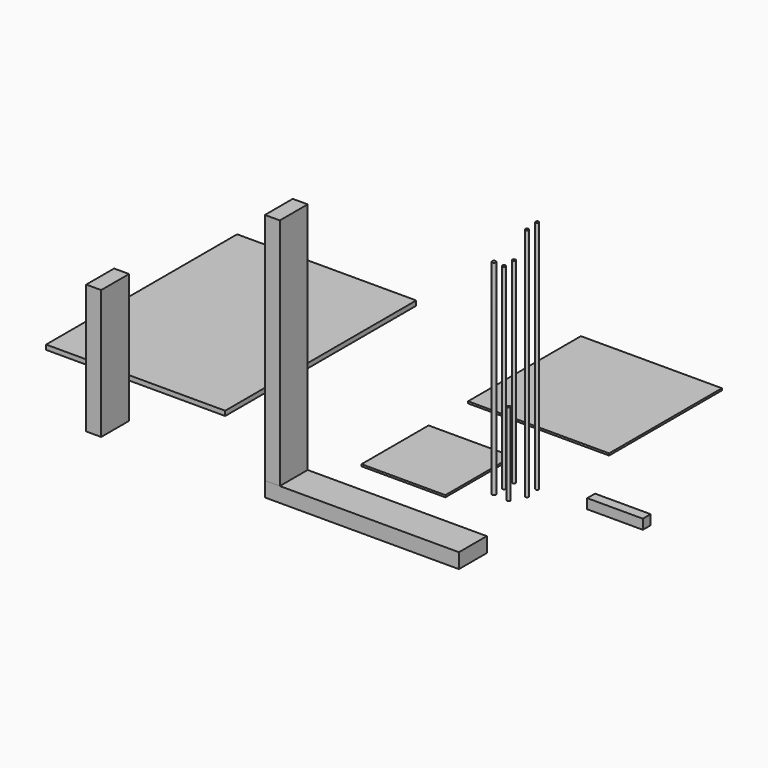
from build123d import *

# Parameters (mm, degrees)
F0_W      = 38.1
F0_H      = 596.9
F1_DEPTH  = 88.9
F2_DEPTH  = 88.9
F3_W      = 214
F3_H      = 214
F4_DEPTH  = 5
F3_R      = 4
F5_DEPTH  = 500
F6_DEPTH  = 500
F3_W_2    = 360
F3_H_2    = 360
F7_DEPTH  = 5
F3_R_2    = 4.7625
F8_DEPTH  = 522
F9_DEPTH  = 600
F3_R_3    = 3.96875
F10_DEPTH = 210
F11_DEPTH = 600
F3_W_3    = 457.2
F3_H_3    = 609.6
F12_DEPTH = 12
F3_W_4    = 142
F3_H_4    = 25
F13_DEPTH = 25
F0_H_2    = 330.2
F14_DEPTH = 88.9


with BuildPart() as f1:
    # F0 (on Front) → F1 (new body)
    with BuildSketch(Plane.XZ):
        with Locations((19.05, 298.45)):
            Rectangle(F0_W, F0_H)
    extrude(amount=F1_DEPTH)


with BuildPart() as f2:
    # F0 (on Front) → F2 (new body)
    with BuildSketch(Plane.XZ):
        Polygon((38.1, 0), (0, 0), (0, -38.1), (495.3, -38.1), (495.3, 0), align=None)
    extrude(amount=F2_DEPTH)


with BuildPart() as f4:
    # F3 (on Top) → F4 (new body)
    with BuildSketch(Plane.XY):
        with Locations((219.240808, 186.130732)):
            Rectangle(F3_W, F3_H)
    extrude(amount=F4_DEPTH)


with BuildPart() as f5:
    # F3 (on Top) → F5 (new body)
    with BuildSketch(Plane.XY):
        with Locations((393.458724, 214.206696)):
            Circle(F3_R)
    extrude(amount=F5_DEPTH)


with BuildPart() as f6:
    # F3 (on Top) → F6 (new body)
    with BuildSketch(Plane.XY):
        with Locations((393.458724, 182.198182)):
            Circle(F3_R)
    extrude(amount=F6_DEPTH)


with BuildPart() as f7:
    # F3 (on Top) → F7 (new body)
    with BuildSketch(Plane.XY):
        with Locations((288.471088, 603.846811)):
            Rectangle(F3_W_2, F3_H_2)
    extrude(amount=F7_DEPTH)


with BuildPart() as f8:
    # F3 (on Top) → F8 (new body)
    with BuildSketch(Plane.XY):
        with Locations((393.006811, 150.760646)):
            Circle(F3_R_2)
    extrude(amount=F8_DEPTH)


with BuildPart() as f9:
    # F3 (on Top) → F9 (new body)
    with BuildSketch(Plane.XY):
        with Locations((450.694332, 183.856339)):
            Circle(F3_R)
    extrude(amount=F9_DEPTH)


with BuildPart() as f10:
    # F3 (on Top) → F10 (new body)
    with BuildSketch(Plane.XY):
        with Locations((432.52459, 148.375439)):
            Circle(F3_R_3)
    extrude(amount=F10_DEPTH)


with BuildPart() as f11:
    # F3 (on Top) → F11 (new body)
    with BuildSketch(Plane.XY):
        with Locations((447.071671, 221.305892)):
            Circle(F3_R)
    extrude(amount=F11_DEPTH)


with BuildPart() as f12:
    # F3 (on Top) → F12 (new body)
    with BuildSketch(Plane.XY):
        with Locations((-464.333202, 383.84502)):
            Rectangle(F3_W_3, F3_H_3)
    extrude(amount=F12_DEPTH)


with BuildPart() as f13:
    # F3 (on Top) → F13 (new body)
    with BuildSketch(Plane.XY):
        with Locations((650.169591, 228.096303)):
            Rectangle(F3_W_4, F3_H_4)
    extrude(amount=F13_DEPTH)


with BuildPart() as f14:
    # F0 (on Front) → F14 (new body)
    with BuildSketch(Plane.XZ):
        with Locations((-436.988028, 127)):
            Rectangle(F0_W, F0_H_2)
    extrude(amount=F14_DEPTH)


solid = Compound([f1.part, f2.part, f4.part, f5.part, f6.part, f7.part, f8.part, f9.part, f10.part, f11.part, f12.part, f13.part, f14.part])
